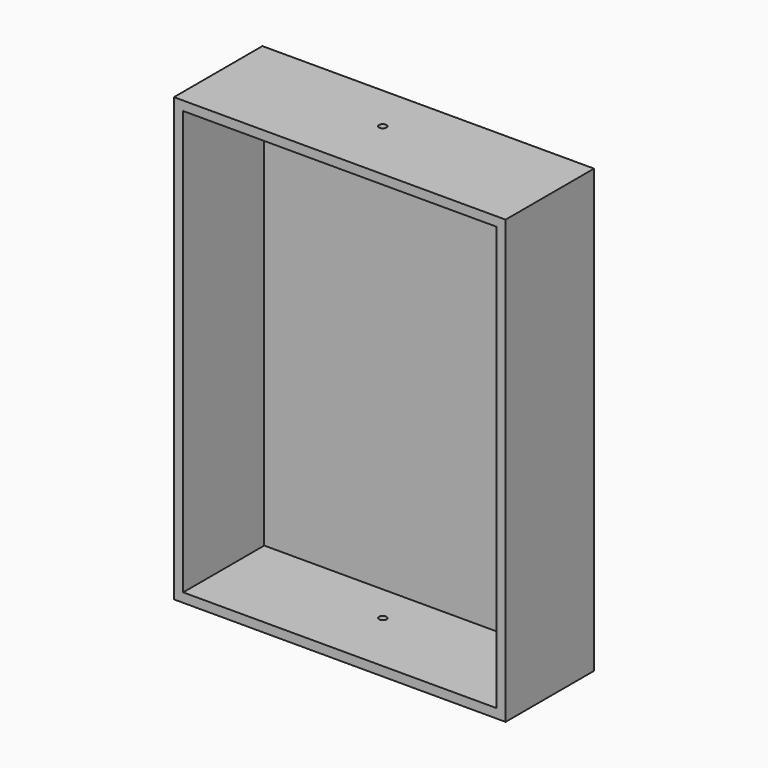
from build123d import *

# Parameters (mm, degrees)
F0_W     = 90
F0_H     = 120
F1_DEPTH = 30
F2_T     = -2.5
F3_R     = 1
F4_DEPTH = 120.001


with BuildPart() as f1:
    # F0 (on Front) → F1 (new body)
    with BuildSketch(Plane.XZ):
        with Locations((-45, 60)):
            Rectangle(F0_W, F0_H)
    extrude(amount=F1_DEPTH)

    # F2
    f2_openings = [f1.faces().sort_by_distance(p)[0] for p in [
        (-45, -30, 60),
    ]]
    offset(amount=F2_T, openings=f2_openings)

    # F3 (on face) → F4 (cut, through all)
    with BuildSketch(Plane.XY.offset(120)):
        with Locations((-47.093008, -12.78865)):
            Circle(F3_R)
    extrude(amount=-F4_DEPTH, mode=Mode.SUBTRACT)


solid = f1.part
